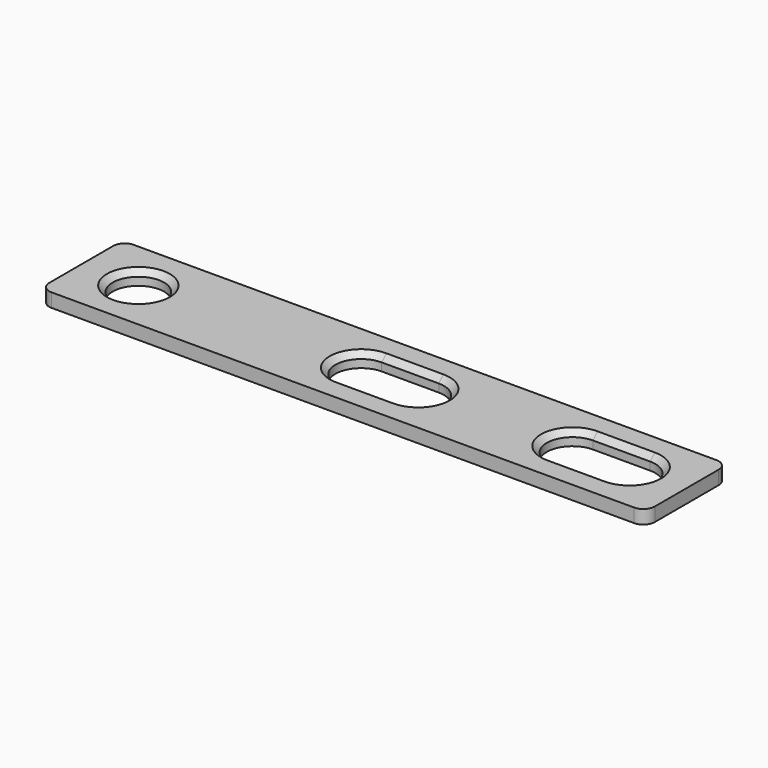
from build123d import *

# Parameters (mm, degrees)
F0_W     = 53
F0_H     = 9
F0_R     = 2.25
F1_DEPTH = 1.2
F2_R     = 1
F3_SIZE  = 0.5


with BuildPart() as f1:
    # F0 (on Top) → F1 (new body)
    with BuildSketch(Plane.XY):
        Rectangle(F0_W, F0_H)
        with Locations((-21.5, 0)):
            Circle(F0_R, mode=Mode.SUBTRACT)
        with BuildLine():
            Line((3, -2.25), (-2, -2.25))
            ThreePointArc((-2, -2.25), (-4.25, 0), (-2, 2.25))
            Line((-2, 2.25), (3, 2.25))
            ThreePointArc((3, 2.25), (5.25, 0), (3, -2.25))
        make_face(mode=Mode.SUBTRACT)
        with BuildLine():
            Line((21.5, -2.25), (16.5, -2.25))
            ThreePointArc((16.5, -2.25), (14.25, 0), (16.5, 2.25))
            Line((16.5, 2.25), (21.5, 2.25))
            ThreePointArc((21.5, 2.25), (23.75, 0), (21.5, -2.25))
        make_face(mode=Mode.SUBTRACT)
    extrude(amount=F1_DEPTH)

    # F2
    f2_edges = [f1.edges().sort_by_distance(p)[0] for p in [
        (-26.5, -4.5, 0.6),
        (-26.5, 4.5, 0.6),
        (26.5, -4.5, 0.6),
        (26.5, 4.5, 0.6),
    ]]
    fillet(f2_edges, radius=F2_R)

    # F3
    f3_edges = [f1.edges().sort_by_distance(p)[0] for p in [
        (-23.75, 0, 1.2),
        (-4.25, 0, 1.2),
        (14.25, 0, 1.2),
    ]]
    chamfer(f3_edges, length=F3_SIZE)


solid = f1.part
